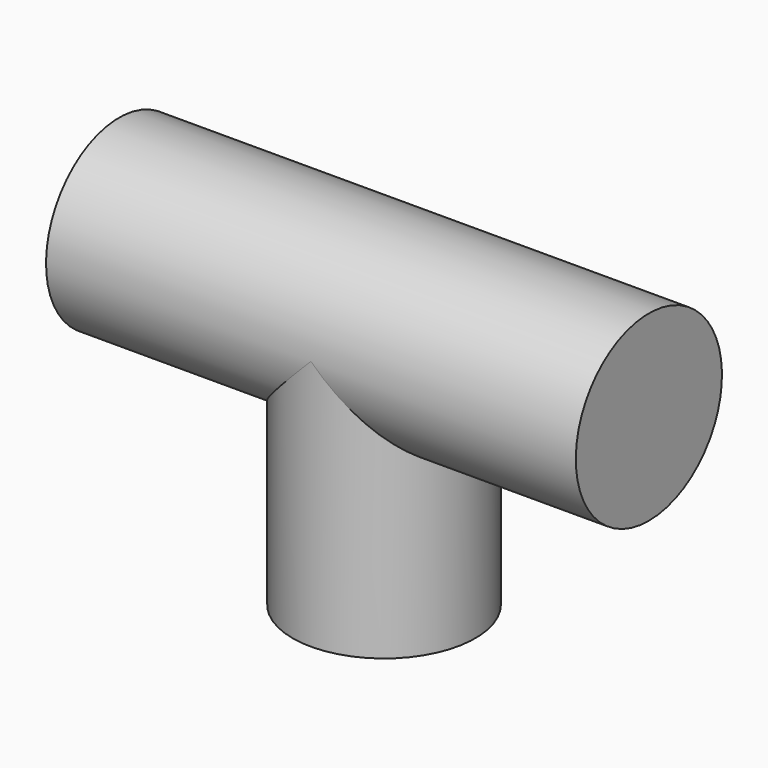
from build123d import *

# Parameters (mm, degrees)
CYLINDER003_R          = 20
CYLINDER003_DEPTH      = 116
CYLINDER004_R          = 20
CYLINDER004_DEPTH      = 55
FUSION_PLACEMENT_ANGLE = 90


with BuildPart() as cylinder:
    # Cylinder003 → Cylinder003 (new body)
    with BuildSketch(Plane.XY):
        Circle(CYLINDER003_R)
    extrude(amount=CYLINDER003_DEPTH)


with BuildPart() as obj1:
    # Cylinder004 → Cylinder004 (new body)
    with BuildSketch(Plane(origin=(0, 0, 58), x_dir=(0, 0, -1), z_dir=(1, 0, 0))):
        Circle(CYLINDER004_R)
    extrude(amount=CYLINDER004_DEPTH)

    # Fusion: union Cylinder
    add(cylinder.part)


with BuildPart() as obj1_1:
    # Fusion placement: moved
    add(obj1.part.moved(Location((450, -120, -550))).rotate(Axis((450, -120, -550), (0, 1, 0)), FUSION_PLACEMENT_ANGLE))


solid = obj1_1.part
